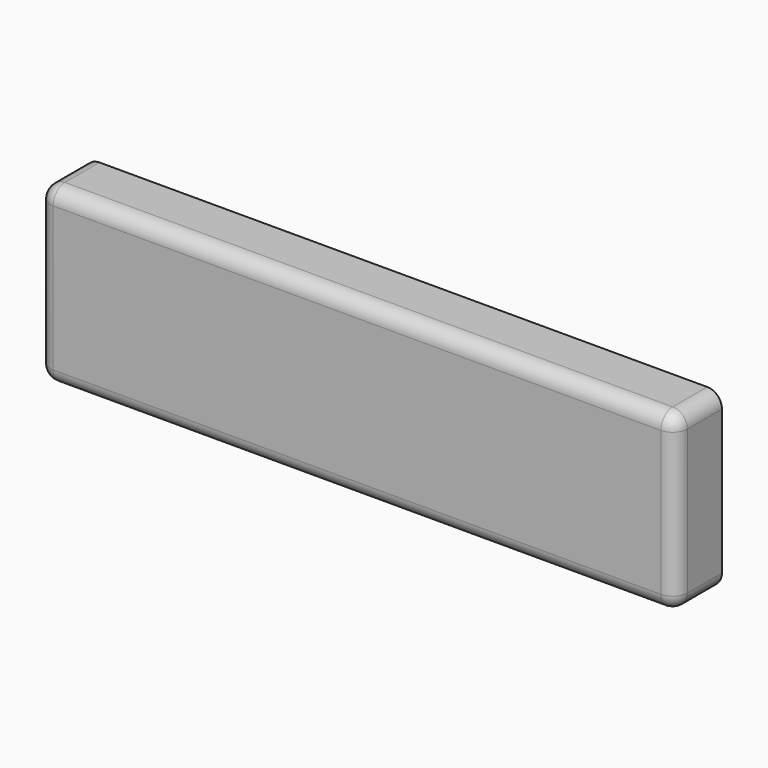
from build123d import *

# Parameters (mm, degrees)
F0_W     = 220
F0_H     = 60
F1_DEPTH = 20
F2_R     = 5.08
F3_R     = 5.08
F4_R     = 5.08
F5_R     = 5.08


with BuildPart() as f1:
    # F0 (on Front) → F1 (new body)
    with BuildSketch(Plane.XZ):
        with Locations((0.284394, -32.671896)):
            Rectangle(F0_W, F0_H)
    extrude(amount=F1_DEPTH)

    # F2
    f2_edges = [f1.edges().sort_by_distance(p)[0] for p in [
        (-109.715606, -10, -62.671896),
    ]]
    fillet(f2_edges, radius=F2_R)

    # F3
    f3_edges = [f1.edges().sort_by_distance(p)[0] for p in [
        (-109.715606, -10, -2.671896),
    ]]
    fillet(f3_edges, radius=F3_R)

    # F4
    f4_edges = [f1.edges().sort_by_distance(p)[0] for p in [
        (110.284394, -10, -2.671896),
        (110.284394, -10, -62.671896),
    ]]
    fillet(f4_edges, radius=F4_R)

    # F5
    f5_edges = [f1.edges().sort_by_distance(p)[0] for p in [
        (0.284394, -20, -62.671896),
    ]]
    fillet(f5_edges, radius=F5_R)


solid = f1.part
